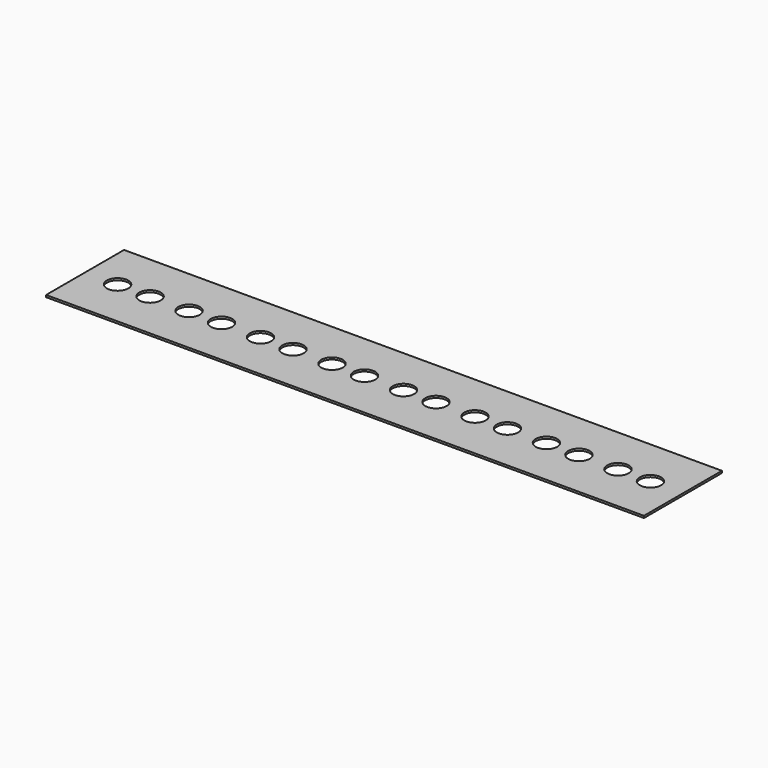
from build123d import *

# Parameters (mm, degrees)
F0_W     = 467.36
F0_H     = 76.2
F0_R     = 8.382
F1_DEPTH = 1.5875


with BuildPart() as f1:
    # F0 (on Top) → F1 (new body)
    with BuildSketch(Plane.XY):
        with Locations((-233.68, 38.1)):
            Rectangle(F0_W, F0_H)
        with Locations((-441.96, 38.1)):
            Circle(F0_R, mode=Mode.SUBTRACT)
        with Locations((-416.56, 38.1)):
            Circle(F0_R, mode=Mode.SUBTRACT)
        with Locations((-386.08, 38.1)):
            Circle(F0_R, mode=Mode.SUBTRACT)
        with Locations((-360.68, 38.1)):
            Circle(F0_R, mode=Mode.SUBTRACT)
        with Locations((-330.2, 38.1)):
            Circle(F0_R, mode=Mode.SUBTRACT)
        with Locations((-304.8, 38.1)):
            Circle(F0_R, mode=Mode.SUBTRACT)
        with Locations((-274.32, 38.1)):
            Circle(F0_R, mode=Mode.SUBTRACT)
        with Locations((-248.92, 38.1)):
            Circle(F0_R, mode=Mode.SUBTRACT)
        with Locations((-218.44, 38.1)):
            Circle(F0_R, mode=Mode.SUBTRACT)
        with Locations((-193.04, 38.1)):
            Circle(F0_R, mode=Mode.SUBTRACT)
        with Locations((-162.56, 38.1)):
            Circle(F0_R, mode=Mode.SUBTRACT)
        with Locations((-137.16, 38.1)):
            Circle(F0_R, mode=Mode.SUBTRACT)
        with Locations((-106.68, 38.1)):
            Circle(F0_R, mode=Mode.SUBTRACT)
        with Locations((-81.28, 38.1)):
            Circle(F0_R, mode=Mode.SUBTRACT)
        with Locations((-50.8, 38.1)):
            Circle(F0_R, mode=Mode.SUBTRACT)
        with Locations((-25.4, 38.1)):
            Circle(F0_R, mode=Mode.SUBTRACT)
    extrude(amount=F1_DEPTH)


solid = f1.part
